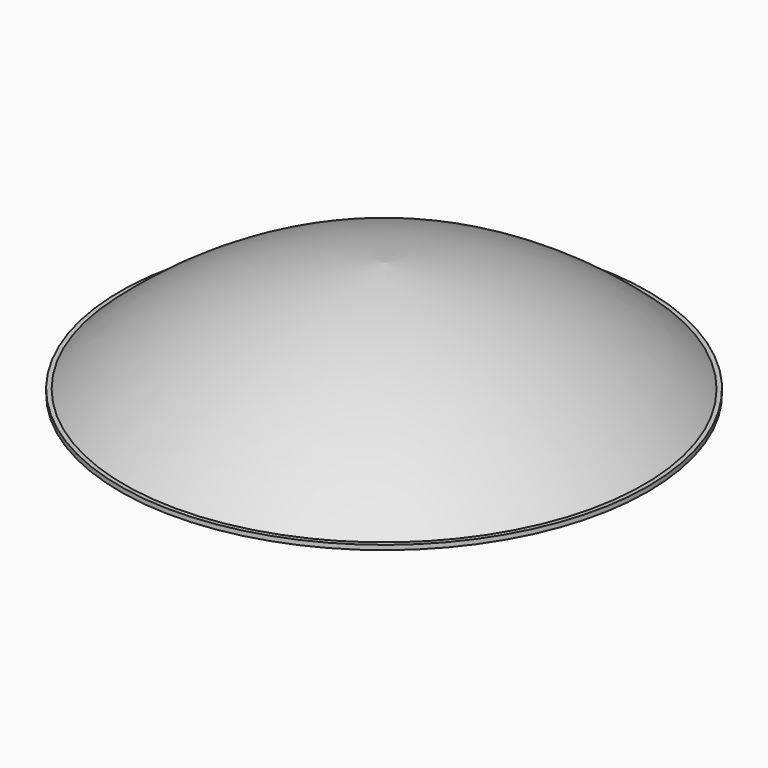
from build123d import *

# Parameters (mm, degrees)
F2_R     = 38.1
F3_DEPTH = 1.5875
F4_R     = 90.372707
F5_DEPTH = 1.5875


with BuildPart() as f1:
    # F0 (on Right) → F1 (revolve)
    with BuildSketch(Plane.YZ):
        with BuildLine():
            Line((0, 38.1), (0, 37.303685))
            ThreePointArc((0, 37.303685), (46.87859, 25.766056), (87.705412, 0))
            Line((87.705412, 0), (88.9, 0))
            ThreePointArc((88.9, 0), (47.571422, 26.333319), (0, 38.1))
        make_face()
    revolve(axis=Axis((0, 0, 18.651843), (0, 0, 1)))


with BuildPart() as f3:
    # F2 (on face) → F3 (new body)
    with BuildSketch(Plane(origin=(0, 0, 0), x_dir=(1, 0, 0), z_dir=(0, 0, -1))):
        with Locations((0, -46.99)):
            Circle(F2_R)
    extrude(amount=-F3_DEPTH)


with BuildPart() as f5:
    # F4 (on face) → F5 (new body)
    with BuildSketch(Plane(origin=(0, 0, 0), x_dir=(1, 0, 0), z_dir=(0, 0, -1))):
        Circle(F4_R)
    extrude(amount=F5_DEPTH)


solid = Compound([f1.part, f3.part, f5.part])
